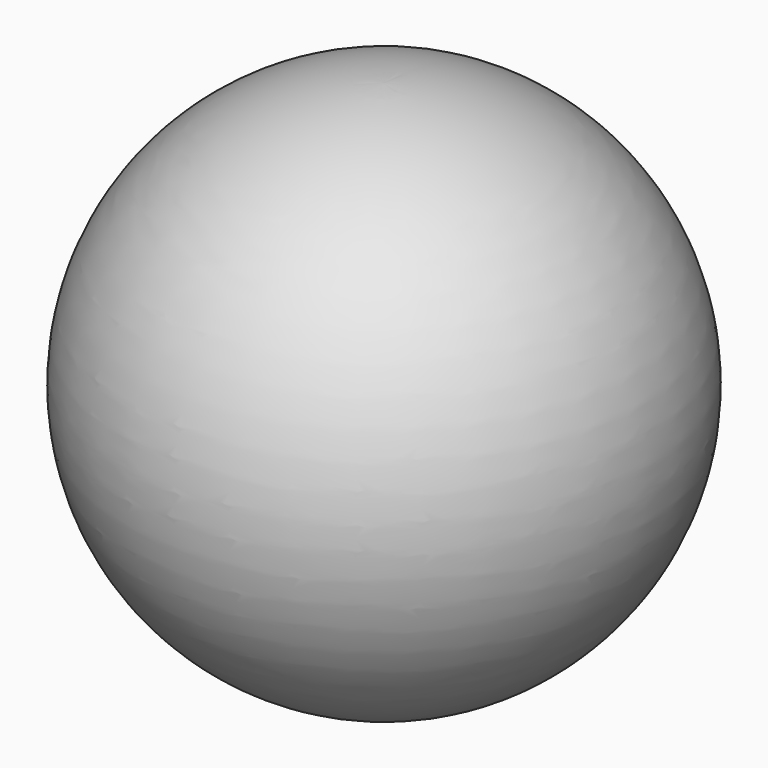
from build123d import *


with BuildPart() as f1:
    # F0 (on Right) → F1 (revolve)
    with BuildSketch(Plane.YZ):
        with BuildLine():
            Line((0, 76.2), (0, 0))
            ThreePointArc((0, 0), (37.825453, 38.1), (0, 76.2))
        make_face()
    revolve(axis=Axis((0, 0, 38.1), (0, 0, 1)))


solid = f1.part
